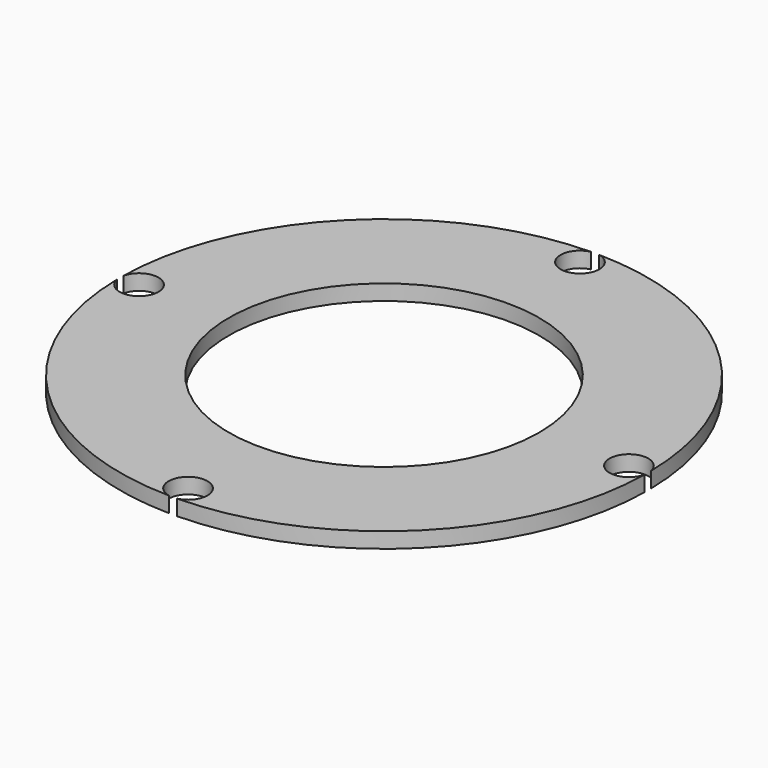
from build123d import *

# Parameters (mm, degrees)
CYLINDER_R     = 2.5
CYLINDER_DEPTH = 10
ARRAY_COUNT    = 4
TUBE_R         = 34
TUBE_R_2       = 20
TUBE_DEPTH     = 2


with BuildPart() as array:
    # Cylinder → Cylinder (new body)
    with BuildSketch(Plane(origin=(31.55, 0, 0), x_dir=(1, 0, 0), z_dir=(0, 0, 1))):
        Circle(CYLINDER_R)
    extrude(amount=CYLINDER_DEPTH)

    # Array: Array ×4 about axis
    array_axis = Axis((0, 0, 0), (0, 0, 1))


with BuildPart() as array_1:
    add(array.part)
    for i in range(1, ARRAY_COUNT):
        add(array.part.rotate(array_axis, i * 360 / ARRAY_COUNT))


with BuildPart() as cut:
    # Tube → Tube (new body)
    with BuildSketch(Plane.XY):
        Circle(TUBE_R)
        Circle(TUBE_R_2, mode=Mode.SUBTRACT)
    extrude(amount=TUBE_DEPTH)

    # Cut: cut Array
    add(array_1.part, mode=Mode.SUBTRACT)


solid = cut.part
